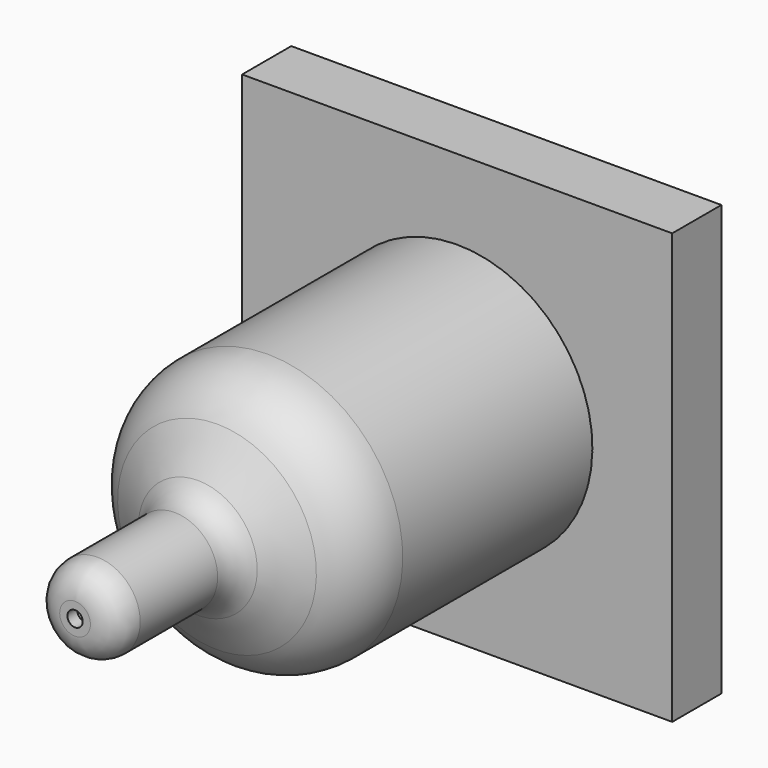
from build123d import *

# Parameters (mm, degrees)
F4_W     = 140
F4_H     = 140
F4_R     = 44
F5_DEPTH = 20


with BuildPart() as f1:
    # F0 (on Right) → F1 (revolve)
    with BuildSketch(Plane.YZ):
        with BuildLine():
            ThreePointArc((-177.826051, 30.289915), (-170.530169, 37.403998), (-160.676192, 40))
            Line((-160.676192, 40), (-52, 40))
            ThreePointArc((-52, 40), (-23.715729, 28.284271), (-12, 0))
            Line((-12, 0), (-8, 0))
            ThreePointArc((-8, 0), (-20.887302, 31.112698), (-52, 44))
            Line((-52, 44), (-160.676192, 44))
            ThreePointArc((-160.676192, 44), (-172.500964, 40.884798), (-181.256023, 32.347898))
            Line((-181.256023, 32.347898), (-189.060434, 19.340547))
            ThreePointArc((-189.060434, 19.340547), (-193.073169, 15.427801), (-198.492856, 14))
            Line((-198.492856, 14), (-230, 14))
            ThreePointArc((-230, 14), (-236.363961, 11.363961), (-239, 5))
            Line((-239, 5), (-239, 2.5))
            Line((-239, 2.5), (-235, 2.5))
            Line((-235, 2.5), (-235, 5))
            ThreePointArc((-235, 5), (-233.535534, 8.535534), (-230, 10))
            Line((-230, 10), (-198.492856, 10))
            ThreePointArc((-198.492856, 10), (-191.102373, 11.947001), (-185.630462, 17.282564))
            Line((-185.630462, 17.282564), (-177.826051, 30.289915))
        make_face()
    revolve(axis=Axis((0, -62, 0), (0, -1, 0)))


with BuildPart() as f5:
    # F4 (on offset) → F5 (new body)
    with BuildSketch(Plane.XZ.offset(63.53829)):
        Rectangle(F4_W, F4_H)
        Circle(F4_R, mode=Mode.SUBTRACT)
    extrude(amount=F5_DEPTH)


with BuildPart() as f6:
    # F2 (on Right) → F6 (revolve)
    with BuildSketch(Plane.YZ):
        with BuildLine():
            Line((-56.609074, 39.4), (-158.609074, 39.4))
            ThreePointArc((-158.609074, 39.4), (-165.666353, 36.060151), (-170.907125, 30.272743))
            Line((-170.907125, 30.272743), (-183.043189, 10))
            Line((-183.043189, 10), (-183.043189, 0))
            Line((-183.043189, 0), (-17.209074, 0))
            ThreePointArc((-17.209074, 0), (-28.749066, 27.860007), (-56.609074, 39.4))
        make_face()
    revolve(axis=Axis((0, -4, 0), (0, 1, 0)))


solid = Compound([f1.part, f5.part, f6.part])
